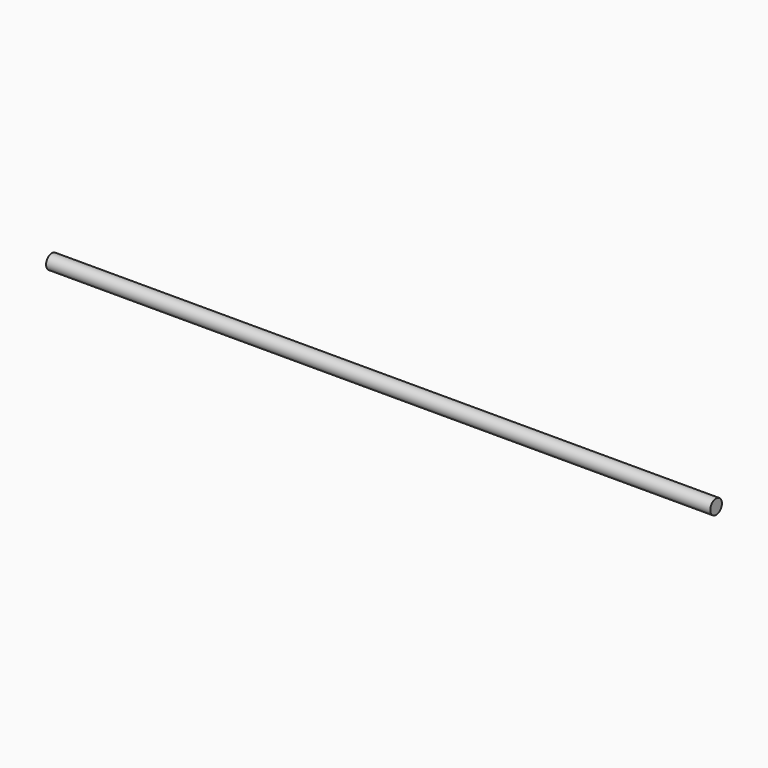
from build123d import *

# Parameters (mm, degrees)
SKETCH_R  = 4
PAD_DEPTH = 365


with BuildPart() as part:
    # Sketch → Pad (new body)
    with BuildSketch(Plane.YZ):
        Circle(SKETCH_R)
    extrude(amount=PAD_DEPTH)


solid = part.part
